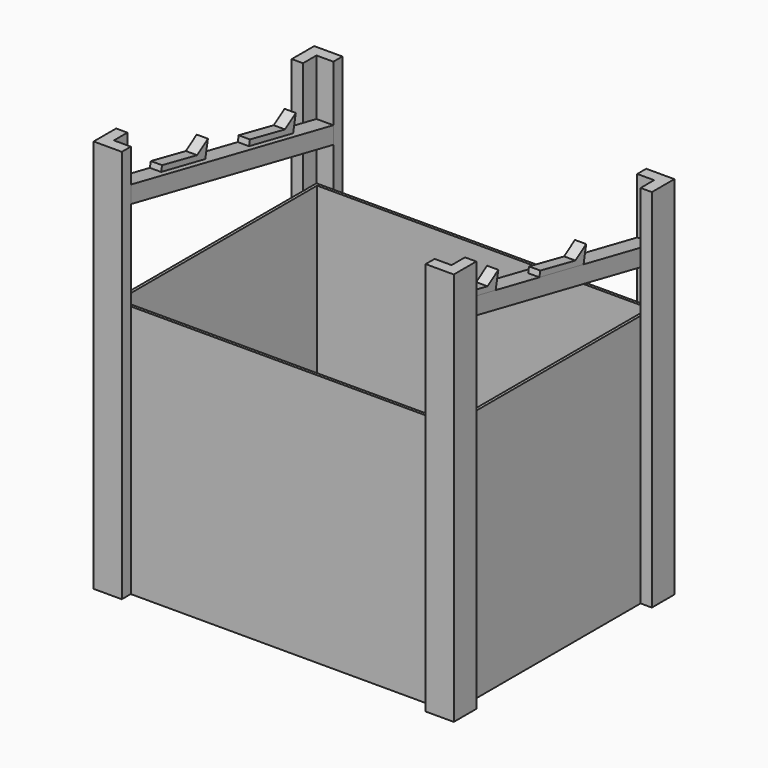
from build123d import *

# Parameters (mm, degrees)
F0_W      = 600
F0_H      = 450
F1_DEPTH  = 450
F2_T      = -5
F4_DEPTH  = 700
F6_ANGLE  = -90
F8_DEPTH  = 650
F10_ANGLE = -90
F12_DEPTH = 30
F15_DEPTH = 20


with BuildPart() as f1:
    # F0 (on Top) → F1 (new body)
    with BuildSketch(Plane.XY):
        Rectangle(F0_W, F0_H)
    extrude(amount=F1_DEPTH)

    # F2
    f2_openings = [f1.faces().sort_by_distance(p)[0] for p in [
        (0, 0, 450),
    ]]
    offset(amount=F2_T, openings=f2_openings)


with BuildPart() as f4:
    # F3 (on face) → F4 (new body)
    with BuildSketch(Plane(origin=(0, 0, 0), x_dir=(1, 0, 0), z_dir=(0, 0, -1))):
        Polygon((-320, 195), (-300, 195), (-300, 225), (-270, 225), (-270, 245), (-320, 245), align=None)
    extrude(amount=-F4_DEPTH)


with BuildPart() as f5_1:
    # F5: copy of F4
    add(f4.part.moved(Location((600, 0, 0))))


with BuildPart() as f5_1_1:
    # F6: moved
    add(f5_1.part.rotate(Axis((300, -225, 225), (0, 0, -1)), F6_ANGLE))


with BuildPart() as f8:
    # F7 (on face) → F8 (new body)
    with BuildSketch(Plane(origin=(0, 0, 0), x_dir=(1, 0, 0), z_dir=(0, 0, -1))):
        Polygon((320, -195), (300, -195), (300, -225), (270, -225), (270, -245), (320, -245), align=None)
    extrude(amount=-F8_DEPTH)


with BuildPart() as f9_1:
    # F9: copy of F8
    add(f8.part.moved(Location((-600, 0, 0))))


with BuildPart() as f9_1_1:
    # F10: moved
    add(f9_1.part.rotate(Axis((-300, 225, 225), (0, 0, -1)), F10_ANGLE))


with BuildPart() as f12:
    # F11 (on face) → F12 (new body)
    with BuildSketch(Plane(origin=(-300, 0, 0), x_dir=(0, -1, 0), z_dir=(-1, 0, 0))):
        Polygon((-225, 550.5941170816), (-225, 520), (225, 610), (225, 640.5941170816), align=None)
    extrude(amount=-F12_DEPTH)


with BuildPart() as f13_1:
    # F13: copy of F12
    add(f12.part.moved(Location((570, 0, 0))))


with BuildPart() as f15:
    # F14 (on face) → F15 (new body)
    with BuildSketch(Plane(origin=(-300, 0, 0), x_dir=(0, -1, 0), z_dir=(-1, 0, 0))):
        Polygon((-154.0694367634, 595.3743468104), (-148.1859527092, 565.9569265397), (-50.1278851401, 585.5685400535), (-52.1377606162, 595.3644780163), (-130.070065369, 579.3747658809), align=None)
    extrude(amount=-F15_DEPTH)


with BuildPart() as f15b:
    # F14 (on face) → F15, piece 2 (new body)
    with BuildSketch(Plane(origin=(-300, 0, 0), x_dir=(0, -1, 0), z_dir=(-1, 0, 0))):
        Polygon((41.1204549879, 634.4123251607), (47.0039390421, 604.99490489), (145.0620066112, 624.6065184038), (143.052131135, 634.4024563666), (65.1198263823, 618.4127442311), align=None)
    extrude(amount=-F15_DEPTH)


with BuildPart() as f16_1:
    # F16: copy of F15b
    add(f15b.part.moved(Location((580, 0, 0))))


with BuildPart() as f17_1:
    # F17: copy of F15
    add(f15.part.moved(Location((580, 0, 0))))


with BuildPart() as f16_1_1:
    # F18: moved
    add(f16_1.part.moved(Location((0, -79.9379933888, 15.9875986778))))


with BuildPart() as f17_1_1:
    # F18: moved
    add(f17_1.part.moved(Location((0, -79.9379933888, 15.9875986778))))


solid = Compound([f1.part, f4.part, f5_1_1.part, f8.part, f9_1_1.part, f12.part, f13_1.part, f15.part, f15b.part, f16_1_1.part, f17_1_1.part])
